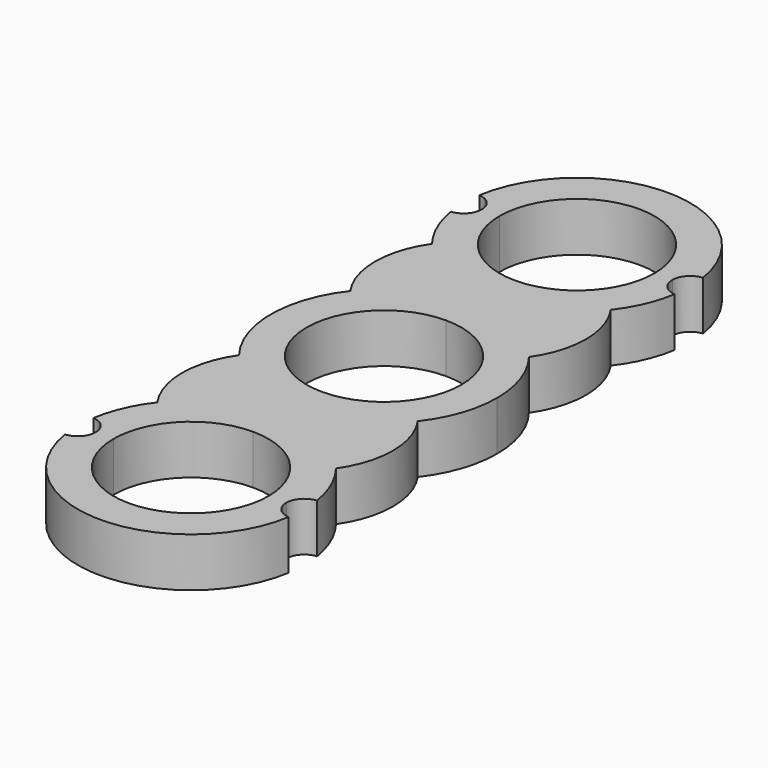
from build123d import *

# Parameters (mm, degrees)
F1_DEPTH = 6.985


with BuildPart() as f1:
    # F0 (on Top) → F1 (new body)
    with BuildSketch(Plane.XY):
        with BuildLine():
            Line((0, 18.1991), (0, 16.0909))
            ThreePointArc((0, 16.0909), (7.068545098, 14.4551974392), (12.7, 9.8806408097))
            ThreePointArc((12.7, 9.8806408097), (14.9827505764, 17.145), (12.7, 24.4093591903))
            ThreePointArc((12.7, 24.4093591903), (7.068545098, 19.8348025608), (0, 18.1991))
        make_face()
        with BuildLine():
            ThreePointArc((-12.7, 9.8806408097), (-7.068545098, 14.4551974392), (0, 16.0909))
            Line((0, 16.0909), (0, 18.1991))
            ThreePointArc((0, 18.1991), (-7.068545098, 19.8348025608), (-12.7, 24.4093591903))
            ThreePointArc((-12.7, 24.4093591903), (-14.9827505764, 17.145), (-12.7, 9.8806408097))
        make_face()
        with BuildLine():
            Line((0, -18.1991), (0, -16.0909))
            ThreePointArc((0, -16.0909), (-7.068545098, -14.4551974392), (-12.7, -9.8806408097))
            ThreePointArc((-12.7, -9.8806408097), (-14.9827505764, -17.145), (-12.7, -24.4093591903))
            ThreePointArc((-12.7, -24.4093591903), (-7.068545098, -19.8348025608), (0, -18.1991))
        make_face()
        with BuildLine():
            ThreePointArc((12.7, -9.8806408097), (7.068545098, -14.4551974392), (0, -16.0909))
            Line((0, -16.0909), (0, -18.1991))
            ThreePointArc((0, -18.1991), (7.068545098, -19.8348025608), (12.7, -24.4093591903))
            ThreePointArc((12.7, -24.4093591903), (14.9827505764, -17.145), (12.7, -9.8806408097))
        make_face()
        with BuildLine():
            ThreePointArc((0, -11.0109), (-11.0109, 0), (0, 11.0109))
            Line((0, 11.0109), (0, 16.0909))
            ThreePointArc((0, 16.0909), (-7.068545098, 14.4551974392), (-12.7, 9.8806408097))
            ThreePointArc((-12.7, 9.8806408097), (-16.0909, 0), (-12.7, -9.8806408097))
            ThreePointArc((-12.7, -9.8806408097), (-7.068545098, -14.4551974392), (0, -16.0909))
            Line((0, -16.0909), (0, -11.0109))
        make_face()
        with BuildLine():
            ThreePointArc((0, 11.0109), (7.785882057, 7.785882057), (11.0109, 0))
            ThreePointArc((11.0109, 0), (7.785882057, -7.785882057), (0, -11.0109))
            Line((0, -11.0109), (0, -16.0909))
            ThreePointArc((0, -16.0909), (7.068545098, -14.4551974392), (12.7, -9.8806408097))
            ThreePointArc((12.7, -9.8806408097), (15.2195843046, -5.2231519607), (16.0909, 0))
            ThreePointArc((16.0909, 0), (15.2195843046, 5.2231519607), (12.7, 9.8806408097))
            ThreePointArc((12.7, 9.8806408097), (7.068545098, 14.4551974392), (0, 16.0909))
            Line((0, 16.0909), (0, 11.0109))
        make_face()
        with BuildLine():
            Line((-13.5509, 34.29), (-11.0109, 34.29))
            ThreePointArc((-11.0109, 34.29), (0, 45.3009), (11.0109, 34.29))
            Line((11.0109, 34.29), (13.5509, 34.29))
            ThreePointArc((13.5509, 34.29), (14.2253166004, 36.013716502), (15.8904264404, 36.8220762927))
            ThreePointArc((15.8904264404, 36.8220762927), (0, 50.3809), (-15.8904264404, 36.8220762927))
            ThreePointArc((-15.8904264404, 36.8220762927), (-14.2253166004, 36.013716502), (-13.5509, 34.29))
        make_face()
        with BuildLine():
            ThreePointArc((-12.7, 24.4093591903), (-7.068545098, 19.8348025608), (0, 18.1991))
            Line((0, 18.1991), (0, 23.2791))
            ThreePointArc((0, 23.2791), (-7.785882057, 26.504117943), (-11.0109, 34.29))
            Line((-11.0109, 34.29), (-13.5509, 34.29))
            ThreePointArc((-13.5509, 34.29), (-14.2253166004, 32.566283498), (-15.8904264404, 31.7579237073))
            ThreePointArc((-15.8904264404, 31.7579237073), (-14.7598601323, 27.8819120103), (-12.7, 24.4093591903))
        make_face()
        with BuildLine():
            Line((0, 23.2791), (0, 18.1991))
            ThreePointArc((0, 18.1991), (7.068545098, 19.8348025608), (12.7, 24.4093591903))
            ThreePointArc((12.7, 24.4093591903), (14.7598601323, 27.8819120103), (15.8904264404, 31.7579237073))
            ThreePointArc((15.8904264404, 31.7579237073), (14.2253166004, 32.566283498), (13.5509, 34.29))
            Line((13.5509, 34.29), (11.0109, 34.29))
            ThreePointArc((11.0109, 34.29), (7.785882057, 26.504117943), (0, 23.2791))
        make_face()
        with BuildLine():
            ThreePointArc((12.7, -24.4093591903), (7.068545098, -19.8348025608), (0, -18.1991))
            Line((0, -18.1991), (0, -23.2791))
            ThreePointArc((0, -23.2791), (7.785882057, -26.504117943), (11.0109, -34.29))
            Line((11.0109, -34.29), (13.5509, -34.29))
            ThreePointArc((13.5509, -34.29), (14.2253166004, -32.566283498), (15.8904264404, -31.7579237073))
            ThreePointArc((15.8904264404, -31.7579237073), (14.7598601323, -27.8819120103), (12.7, -24.4093591903))
        make_face()
        with BuildLine():
            Line((0, -23.2791), (0, -18.1991))
            ThreePointArc((0, -18.1991), (-7.068545098, -19.8348025608), (-12.7, -24.4093591903))
            ThreePointArc((-12.7, -24.4093591903), (-14.7598601323, -27.8819120103), (-15.8904264404, -31.7579237073))
            ThreePointArc((-15.8904264404, -31.7579237073), (-14.2253166004, -32.566283498), (-13.5509, -34.29))
            Line((-13.5509, -34.29), (-11.0109, -34.29))
            ThreePointArc((-11.0109, -34.29), (-7.785882057, -26.504117943), (0, -23.2791))
        make_face()
        with BuildLine():
            Line((13.5509, -34.29), (11.0109, -34.29))
            ThreePointArc((11.0109, -34.29), (0, -45.3009), (-11.0109, -34.29))
            Line((-11.0109, -34.29), (-13.5509, -34.29))
            ThreePointArc((-13.5509, -34.29), (-14.2253166004, -36.013716502), (-15.8904264404, -36.8220762927))
            ThreePointArc((-15.8904264404, -36.8220762927), (0, -50.3809), (15.8904264404, -36.8220762927))
            ThreePointArc((15.8904264404, -36.8220762927), (14.2253166004, -36.013716502), (13.5509, -34.29))
        make_face()
    extrude(amount=F1_DEPTH)


solid = f1.part
